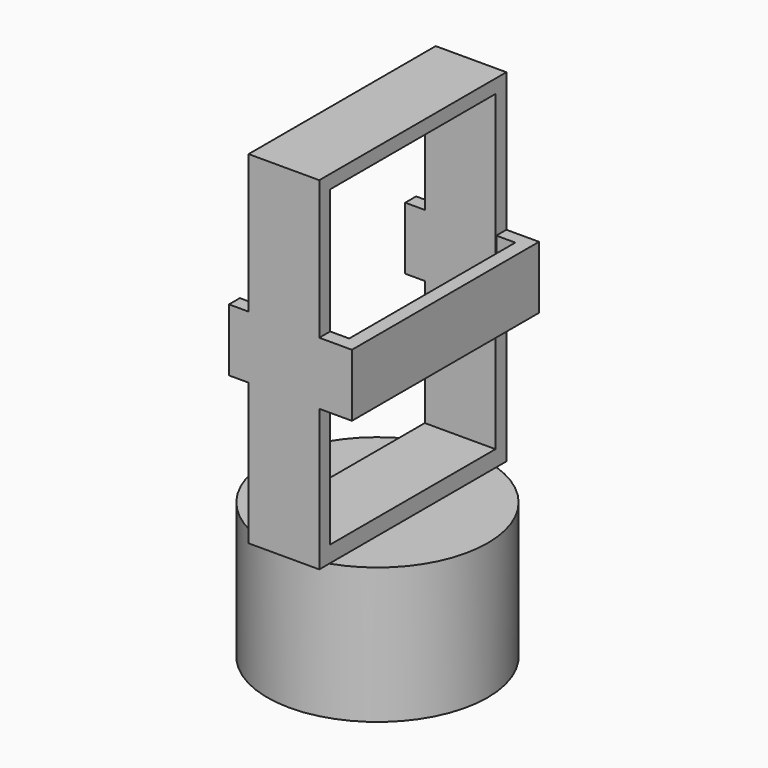
from build123d import *

# Parameters (mm, degrees)
F0_R      = 20.2700767199
F0_R_2    = 19.1
F0_R_3    = 2
F1_DEPTH  = 25
F2_DEPTH  = 24
F3_W      = 13
F3_H      = 13
F3_R      = 2
F4_DEPTH  = 3
F5_DEPTH  = 15
F6_DEPTH  = 15
F7_W      = 13
F7_H      = 2.5
F8_DEPTH  = 60
F9_W      = 13
F9_H      = 2.5
F10_DEPTH = 40
F11_W     = 2.5
F11_H     = 11.5
F11_W_2   = 2.3203180134
F12_DEPTH = 6
F13_W     = 2.5
F13_H     = 11.5
F14_DEPTH = 40
F15_W     = 2.5
F15_H     = 11.5
F16_DEPTH = 3.6
F18_R     = 1
F17_R     = 1
F19_DEPTH = 5


with BuildPart() as f1:
    # F0 (on Top) → F1 (new body)
    with BuildSketch(Plane.XY):
        Circle(F0_R)
        Circle(F0_R_2, mode=Mode.SUBTRACT)
        Circle(F0_R_2)
        Circle(F0_R_3, mode=Mode.SUBTRACT)
    extrude(amount=F1_DEPTH)

    # F0 (on Top) → F2 (cut)
    with BuildSketch(Plane.XY):
        Circle(F0_R_2)
        Circle(F0_R_3, mode=Mode.SUBTRACT)
    extrude(amount=F2_DEPTH, mode=Mode.SUBTRACT)

    # F3 (on face) → F4 (join)
    with BuildSketch(Plane.XY.offset(25)):
        Rectangle(F3_W, F3_H)
        Circle(F3_R, mode=Mode.SUBTRACT)
        Rectangle(F3_W, F3_H)
    extrude(amount=F4_DEPTH)

    # F5 (add): a face of the model
    f5_faces = [f1.faces().sort_by_distance(p)[0] for p in [
        (0, -6.5, 26.5),
    ]]
    extrude(f5_faces, amount=F5_DEPTH)

    # F6 (add): a face of the model
    f6_faces = [f1.faces().sort_by_distance(p)[0] for p in [
        (0, 6.5, 26.5),
    ]]
    extrude(f6_faces, amount=F6_DEPTH)

    # F7 (on face) → F8 (join)
    with BuildSketch(Plane.XY.offset(28)):
        with Locations((0, -20.25)):
            Rectangle(F7_W, F7_H)
        with Locations((0, 20.25)):
            Rectangle(F7_W, F7_H)
        with Locations((0, -20.25)):
            Rectangle(F7_W, F7_H)
    extrude(amount=F8_DEPTH)

    # F9 (on face) → F10 (join)
    with BuildSketch(Plane.XZ.offset(-19)):
        with Locations((0, 86.75)):
            Rectangle(F9_W, F9_H)
        with Locations((0, 86.75)):
            Rectangle(F9_W, F9_H)
    extrude(amount=F10_DEPTH)

    # F11 (on face) → F12 (join)
    with BuildSketch(Plane.YZ.offset(6.5)):
        with Locations((-20.25, 56.75)):
            Rectangle(F11_W, F11_H)
        with Locations((20.3398409933, 56.75)):
            Rectangle(F11_W_2, F11_H)
    extrude(amount=F12_DEPTH)

    # F13 (on face) → F14 (join)
    with BuildSketch(Plane(origin=(0, -19, 0), x_dir=(-1, 0, 0), z_dir=(0, 1, 0))):
        with Locations((-11.25, 56.75)):
            Rectangle(F13_W, F13_H)
    extrude(amount=F14_DEPTH)

    # F15 (on face) → F16 (join)
    with BuildSketch(Plane(origin=(-6.5, 0, 0), x_dir=(0, -1, 0), z_dir=(-1, 0, 0))):
        with Locations((20.25, 56.75)):
            Rectangle(F15_W, F15_H)
        with Locations((-20.25, 56.75)):
            Rectangle(F15_W, F15_H)
    extrude(amount=F16_DEPTH)

    # F18 (on face) + F17 (on face) → F19 (cut)
    with BuildSketch(Plane(origin=(-10.1, 0, 0), x_dir=(0, -1, 0), z_dir=(-1, 0, 0))):
        with Locations((20.25, 56.75)):
            Circle(F18_R)
    with BuildSketch(Plane(origin=(-10.1, 0, 0), x_dir=(0, -1, 0), z_dir=(-1, 0, 0))):
        with Locations((-20.2555917203, 56.75)):
            Circle(F17_R)
    extrude(amount=-F19_DEPTH, mode=Mode.SUBTRACT)


solid = f1.part
